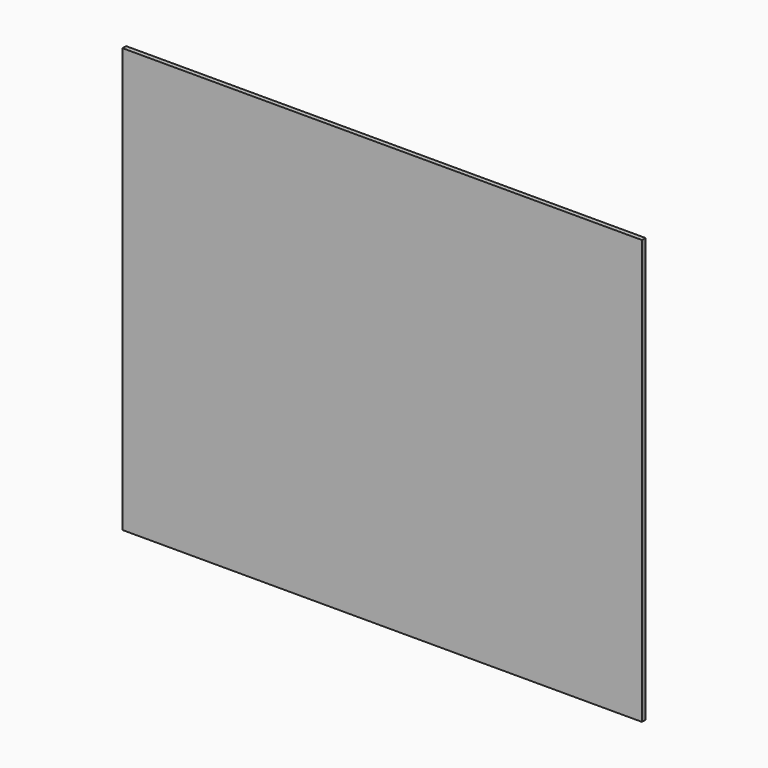
from build123d import *

# Parameters (mm, degrees)
F0_W     = 22.6885974407
F0_H     = 22.1197940409
F0_W_2   = 22.4054604769
F0_H_2   = 20.4182658345
F0_W_3   = 49.8421652913
F0_H_3   = 18.7167446129
F0_W_4   = 21.0188105702
F0_H_4   = 20.4182639718
F0_H_5   = 17.01522246
F0_H_6   = 21.2690271437
F0_H_7   = 22.915400815
F0_W_5   = 24.2707803845
F0_H_8   = 22.1197889186
F0_H_9   = 22.9705497622
F0_H_10  = 16.1644592881
F0_H_11  = 21.2690234184
F0_H_12  = 22.9705572128
F1_DEPTH = 3.302


with BuildPart() as f1:
    # F0 (on Front) → F1 (new body)
    with BuildSketch(Plane.XZ):
        Polygon((-47.1492672342, -29.7174975276), (-47.5814542907, -7.597708609), (-69.7490387884, -7.597708609), (-69.3785926643, -29.7174975276), align=None)
        Polygon((190.5, 91.0905823112), (190.5, 112.3596057296), (167.3408431252, 112.3596057296), (167.4002093941, 91.0905823112), align=None)
        Polygon((31.8565960935, -132.659599185), (31.2031726407, -109.6890419722), (6.6789926587, -109.6890419722), (7.2573604686, -132.659599185), align=None)
        Polygon((82.1086540818, -89.2707780004), (82.1086540818, -73.1063187122), (55.3784938051, -73.1063187122), (55.7321041705, -89.2707780004), align=None)
        Polygon((-22.7662731246, 48.5525242984), (-23.2138789712, 70.6723183393), (-49.1107316578, 70.6723183393), (-48.6785445012, 48.5525242984), align=None)
        with Locations((136.8772238493, -62.0464216918)):
            Rectangle(F0_W, F0_H)
        Polygon((51.7865563865, 91.0905823112), (51.3212796328, 112.3596057296), (24.8867479792, 112.3596057296), (25.4917693808, 91.0905823112), align=None)
        Polygon((103.1274646521, 70.6723183393), (103.1274646521, 84.2207627992), (86.5375326604, 70.6723183393), align=None)
        Polygon((53.9454410105, -7.597708609), (53.5359973797, 11.1190360039), (27.7666503699, 11.1190360039), (28.2990693172, -7.597708609), align=None)
        Polygon((30.6223520529, -89.2707780004), (30.1625357453, -73.1063187122), (5.7578887719, -73.1063187122), (6.1648881681, -89.2707780004), align=None)
        Polygon((-21.182437429, -29.7174975276), (-21.4296472383, -17.500878578), (-36.3887724828, -29.7174975276), align=None)
        Polygon((50.818780641, 135.3301554918), (82.1086540818, 135.3301554918), (82.1086540818, 155.575), (65.6074360013, 155.575), (50.3759086132, 155.575), align=None)
        Polygon((55.7321041705, -89.2707780004), (55.3784938051, -73.1063187122), (30.1625357453, -73.1063187122), (30.6223520529, -89.2707780004), align=None)
        Polygon((-89.6214877868, 73.1908816925), (-89.6714495749, 91.0905823112), (-111.5394885443, 91.0905823112), align=None)
        Polygon((167.9606270932, -109.6890419722), (167.9036354709, -89.2707780004), (148.2215225697, -89.2707780004), (148.2215225697, -109.6890419722), align=None)
        with Locations((114.3301948905, 38.3433913812)):
            Rectangle(F0_W_2, F0_H_2)
        Polygon((86.5375326604, 70.6723183393), (103.1274646521, 84.2207627992), (103.1274646521, 91.0905823112), (82.1086540818, 91.0905823112), (82.1086540818, 70.6723183393), align=None)
        Polygon((167.2731652274, 136.606418269), (167.2202199697, 155.575), (159.403860569, 155.575), (148.2215225697, 155.575), (148.2215225697, 135.3301554918), (165.7103944798, 135.3301554918), align=None)
        with Locations((-165.5789173543, 1.7606636975)):
            Rectangle(F0_W_3, F0_H_3)
        Polygon((82.1086540818, 135.3301554918), (103.1274646521, 135.3301554918), (103.1274646521, 155.575), (96.3208153844, 155.575), (82.1086540818, 155.575), align=None)
        Polygon((-89.6714495749, 91.0905823112), (-89.7308158438, 112.3596057296), (-116.3870543242, 112.3596057296), (-116.3870543242, 95.0494276981), (-111.5394885443, 91.0905823112), align=None)
        Polygon((167.5759335906, 28.134258464), (167.5189419631, 48.5525242984), (148.2215225697, 48.5525242984), (148.2215225697, 28.134258464), align=None)
        Polygon((190.5, -7.597708609), (190.5, 11.1190360039), (167.6234266161, 11.1190360039), (167.6756689439, -7.597708609), align=None)
        Polygon((-162.4403255326, -132.659599185), (-140.6578347087, -114.8705650121), (-140.6578347087, -109.6890419722), (-190.5, -109.6890419722), (-190.5, -132.659599185), align=None)
        Polygon((82.1086540818, -7.597708609), (82.1086540818, 11.1190360039), (53.5359973797, 11.1190360039), (53.9454410105, -7.597708609), align=None)
        Polygon((-67.270822823, -155.575), (-67.6545932761, -132.659599185), (-89.046916272, -132.659599185), (-88.9829546213, -155.575), (-81.0977313981, -155.575), align=None)
        Polygon((103.1274646521, -84.2207627992), (89.5179412803, -73.1063187122), (82.1086540818, -73.1063187122), (82.1086540818, -89.2707780004), (103.1274646521, -89.2707780004), align=None)
        Polygon((-68.0392874483, -109.6890419722), (-68.3812376711, -89.2707780004), (-89.168023498, -89.2707780004), (-89.1110318757, -109.6890419722), align=None)
        Polygon((-140.6578347087, -132.659599185), (-140.6578347087, -114.8705650121), (-162.4403255326, -132.659599185), align=None)
        Polygon((190.5, -132.659599185), (190.5, -109.6890419722), (167.9606270932, -109.6890419722), (168.0247426969, -132.659599185), align=None)
        Polygon((-23.2138789712, 70.6723183393), (-23.627053448, 91.0905823112), (-49.5096735029, 91.0905823112), (-49.1107316578, 70.6723183393), align=None)
        Polygon((-89.7949314267, 135.3301554918), (-72.1426906209, 135.3301554918), (-72.4817365408, 155.575), (-81.0977313981, 155.575), (-89.8514389992, 155.575), align=None)
        Polygon((-116.3870543242, 95.0494276981), (-116.3870543242, 112.3596057296), (-137.5831906893, 112.3596057296), align=None)
        Polygon((56.6812690414, -132.659599185), (56.1787698866, -109.6890419722), (31.2031726407, -109.6890419722), (31.8565960935, -132.659599185), align=None)
        with Locations((92.6180593669, -99.4799099863)):
            Rectangle(F0_W_4, F0_H_4)
        Polygon((-45.5867448013, -109.6890419722), (-45.9856866464, -89.2707780004), (-68.3812376711, -89.2707780004), (-68.0392874483, -109.6890419722), align=None)
        with Locations((92.6180593669, 1.7606636975)):
            Rectangle(F0_W_4, F0_H_3)
        Polygon((125.5329251289, -89.2707780004), (125.5329251289, -73.1063187122), (103.1274646521, -73.1063187122), (103.1274646521, -84.2207627992), (109.3111567351, -89.2707780004), align=None)
        Polygon((26.7018125018, 48.5525242984), (26.0725899687, 70.6723183393), (2.137735606, 70.6723183393), (2.6946823407, 48.5525242984), align=None)
        Polygon((54.4293289342, -29.7174975276), (53.9454410105, -7.597708609), (28.2990693172, -7.597708609), (28.7508552022, -23.4798650818), (36.3887724828, -29.7174975276), align=None)
        Polygon((-89.3342490926, -29.7174975276), (-89.395990025, -7.597708609), (-116.3870543242, -7.597708609), (-116.3870543242, -29.7174975276), align=None)
        Polygon((-116.3870543242, 135.3301554918), (-89.7949314267, 135.3301554918), (-89.8514389992, 155.575), (-98.7423928611, 155.575), (-108.9581176639, 155.575), (-116.3870543242, 155.575), align=None)
        with Locations((136.8772238493, 19.626647234)):
            Rectangle(F0_W, F0_H_5)
        Polygon((148.2215225697, 135.3301554918), (148.2215225697, 155.575), (136.8772238493, 155.575), (125.5329251289, 155.575), (125.5329251289, 135.3301554918), align=None)
        Polygon((-49.1107316578, 70.6723183393), (-49.5096735029, 91.0905823112), (-71.4017984508, 91.0905823112), (-71.059848228, 70.6723183393), align=None)
        with Locations((136.8772238493, -40.3520110995)):
            Rectangle(F0_W, F0_H_6)
        Polygon((-49.9252378945, 112.3596057296), (-50.3740475249, 135.3301554918), (-72.1426906209, 135.3301554918), (-71.7579965735, 112.3596057296), align=None)
        Polygon((-47.9471510336, 11.1190360039), (-48.2796026197, 28.134258464), (-70.3474517641, 28.134258464), (-70.0624932035, 11.1190360039), align=None)
        Polygon((-134.313112619, -109.6890419722), (-116.3870543242, -95.0494276981), (-116.3870543242, -89.2707780004), (-140.6578347087, -89.2707780004), (-140.6578347087, -109.6890419722), align=None)
        Polygon((82.1086540818, -29.7174975276), (82.1086540818, -7.597708609), (53.9454410105, -7.597708609), (54.4293289342, -29.7174975276), align=None)
        Polygon((-46.7337027697, -50.9865246713), (-46.9802648754, -38.3672163149), (-62.4324791894, -50.9865246713), align=None)
        Polygon((167.7374098763, -29.7174975276), (167.6756689439, -7.597708609), (148.2215225697, -7.597708609), (148.2215225697, -29.7174975276), align=None)
        with Locations((-165.5789173543, -62.0464216918)):
            Rectangle(F0_W_3, F0_H)
        Polygon((167.3408431252, 112.3596057296), (167.2767275423, 135.3301554918), (165.7103944798, 135.3301554918), (148.2215225697, 121.0475767652), (148.2215225697, 112.3596057296), align=None)
        with Locations((92.6180593669, -144.1172995925)):
            Rectangle(F0_W_4, F0_H_7)
        Polygon((-70.3474517641, 28.134258464), (-70.6894020181, 48.5525242984), (-89.5527170058, 48.5525242984), (-89.4957253783, 28.134258464), align=None)
        with Locations((114.3301948905, -144.1172995925)):
            Rectangle(F0_W_2, F0_H_7)
        with Locations((-128.5224445164, 59.6124213189)):
            Rectangle(F0_W_5, F0_H)
        Polygon((190.5, 28.134258464), (190.5, 48.5525242984), (167.5189419631, 48.5525242984), (167.5759335906, 28.134258464), align=None)
        Polygon((1.6236311154, 91.0905823112), (1.0881056435, 112.3596057296), (-24.0574434966, 112.3596057296), (-23.627053448, 91.0905823112), align=None)
        Polygon((26.0725899687, 70.6723183393), (25.4917693808, 91.0905823112), (1.6236311154, 91.0905823112), (2.137735606, 70.6723183393), align=None)
        Polygon((-116.3870543242, 112.3596057296), (-116.3870543242, 135.3301554918), (-140.6578347087, 135.3301554918), (-140.6578347087, 114.8705650121), (-137.5831906893, 112.3596057296), align=None)
        Polygon((55.3784938051, -73.1063187122), (54.8946057694, -50.9865246713), (29.5333132121, -50.9865246713), (30.1625357453, -73.1063187122), align=None)
        Polygon((167.5189419631, 48.5525242984), (167.4572010164, 70.6723183393), (148.2215225697, 70.6723183393), (148.2215225697, 48.5525242984), align=None)
        Polygon((52.7171101383, 48.5525242984), (52.2332221026, 70.6723183393), (26.0725899687, 70.6723183393), (26.7018125018, 48.5525242984), align=None)
        Polygon((167.4572010164, 70.6723183393), (167.4002093941, 91.0905823112), (148.2215225697, 91.0905823112), (148.2215225697, 70.6723183393), align=None)
        Polygon((190.5, -89.2707780004), (190.5, -73.1063187122), (167.8585171024, -73.1063187122), (167.9036354709, -89.2707780004), align=None)
        Polygon((6.6789926587, -109.6890419722), (6.1648881681, -89.2707780004), (-19.9773449913, -89.2707780004), (-19.5641705145, -109.6890419722), align=None)
        Polygon((167.6234266161, 11.1190360039), (167.5759335906, 28.134258464), (148.2215225697, 28.134258464), (148.2215225697, 11.1190360039), align=None)
        with Locations((-165.5789173543, 19.626647234)):
            Rectangle(F0_W_3, F0_H_5)
        Polygon((190.5, -29.7174975276), (190.5, -7.597708609), (167.6756689439, -7.597708609), (167.7374098763, -29.7174975276), align=None)
        with Locations((-165.5789173543, 38.3433913812)):
            Rectangle(F0_W_3, F0_H_2)
        Polygon((32.5084505603, -155.575), (31.8565960935, -132.659599185), (7.2573604686, -132.659599185), (7.8343395144, -155.575), align=None)
        with Locations((114.3301948905, -62.0464216918)):
            Rectangle(F0_W_2, F0_H)
        with Locations((114.3301948905, -40.3520110995)):
            Rectangle(F0_W_2, F0_H_6)
        Polygon((-47.5814542907, -7.597708609), (-47.9471510336, 11.1190360039), (-70.0624932035, 11.1190360039), (-69.7490387884, -7.597708609), align=None)
        Polygon((82.1086540818, 70.6723183393), (82.1086540818, 91.0905823112), (51.7865563865, 91.0905823112), (52.2332221026, 70.6723183393), align=None)
        Polygon((-89.2748828133, -50.9865246713), (-89.3342490926, -29.7174975276), (-116.3870543242, -29.7174975276), (-116.3870543242, -50.9865246713), align=None)
        Polygon((-89.4482323528, 11.1190360039), (-89.4957253783, 28.134258464), (-116.3870543242, 28.134258464), (-116.3870543242, 11.1190360039), align=None)
        Polygon((57.1825616062, -155.575), (56.6812690414, -132.659599185), (31.8565960935, -132.659599185), (32.5084505603, -155.575), align=None)
        with Locations((92.6180593669, -18.6576030683)):
            Rectangle(F0_W_4, F0_H_8)
        Polygon((-69.7490387884, -7.597708609), (-70.0624932035, 11.1190360039), (-89.4482323528, 11.1190360039), (-89.395990025, -7.597708609), align=None)
        with Locations((92.6180593669, 123.8448806107)):
            Rectangle(F0_W_4, F0_H_9)
        Polygon((167.2731652274, 136.606418269), (190.5, 155.575), (167.2202199697, 155.575), align=None)
        with Locations((-128.5224445164, -81.1885483563)):
            Rectangle(F0_W_5, F0_H_10)
        Polygon((-48.5038500365, 39.6114775298), (-59.4520705695, 48.5525242984), (-70.6894020181, 48.5525242984), (-70.3474517641, 28.134258464), (-48.2796026197, 28.134258464), align=None)
        Polygon((30.1625357453, -73.1063187122), (29.5333132121, -50.9865246713), (5.2009420372, -50.9865246713), (5.7578887719, -73.1063187122), align=None)
        Polygon((148.2215225697, -121.0475767652), (148.2215225697, -109.6890419722), (134.313112619, -109.6890419722), align=None)
        Polygon((-48.6785445012, 48.5525242984), (-49.1107316578, 70.6723183393), (-71.059848228, 70.6723183393), (-70.8452255019, 57.8569341599), (-59.4520705695, 48.5525242984), align=None)
        Polygon((82.1086540818, 91.0905823112), (82.1086540818, 112.3596057296), (51.3212796328, 112.3596057296), (51.7865563865, 91.0905823112), align=None)
        Polygon((125.5329251289, -102.518555522), (109.3111567351, -89.2707780004), (103.1274646521, -89.2707780004), (103.1274646521, -109.6890419722), (125.5329251289, -109.6890419722), align=None)
        Polygon((-89.046916272, -132.659599185), (-89.1110318757, -109.6890419722), (-116.3870543242, -109.6890419722), (-116.3870543242, -132.659599185), align=None)
        Polygon((148.2215225697, -121.0475767652), (134.313112619, -109.6890419722), (125.5329251289, -109.6890419722), (125.5329251289, -132.659599185), (148.2215225697, -132.659599185), align=None)
        Polygon((-68.3812376711, -89.2707780004), (-68.6519482693, -73.1063187122), (-89.2131418666, -73.1063187122), (-89.168023498, -89.2707780004), align=None)
        with Locations((114.3301948905, 59.6124213189)):
            Rectangle(F0_W_2, F0_H)
        Polygon((25.4917693808, 91.0905823112), (24.8867479792, 112.3596057296), (1.0881056435, 112.3596057296), (1.6236311154, 91.0905823112), align=None)
        Polygon((59.4520705695, 48.5525242984), (82.1086540818, 67.0554008335), (82.1086540818, 70.6723183393), (52.2332221026, 70.6723183393), (52.7171101383, 48.5525242984), align=None)
        Polygon((-109.3111567351, -89.2707780004), (-89.5179412803, -73.1063187122), (-116.3870543242, -73.1063187122), (-116.3870543242, -89.2707780004), align=None)
        Polygon((82.1086540818, -132.659599185), (82.1086540818, -109.6890419722), (56.1787698866, -109.6890419722), (56.6812690414, -132.659599185), align=None)
        with Locations((114.3301948905, 123.8448806107)):
            Rectangle(F0_W_2, F0_H_9)
        Polygon((28.7508552022, -23.4798650818), (9.303316664, -7.597708609), (4.1084698657, -7.597708609), (4.6654164715, -29.7174975276), (28.9282917046, -29.7174975276), align=None)
        Polygon((-62.4324791894, -50.9865246713), (-46.9802648754, -38.3672163149), (-47.1492672342, -29.7174975276), (-69.3785926643, -29.7174975276), (-69.0223944792, -50.9865246713), align=None)
        Polygon((190.5, 112.3596057296), (190.5, 135.3301554918), (167.2767275423, 135.3301554918), (167.3408431252, 112.3596057296), align=None)
        Polygon((-89.6214877868, 73.1908816925), (-111.5394885443, 91.0905823112), (-116.3870543242, 91.0905823112), (-116.3870543242, 70.6723183393), (-89.6144579525, 70.6723183393), align=None)
        Polygon((82.1086540818, -50.9865246713), (82.1086540818, -29.7174975276), (54.4293289342, -29.7174975276), (54.7574903207, -44.7186170952), (62.4324791894, -50.9865246713), align=None)
        Polygon((82.1086540818, 112.3596057296), (82.1086540818, 135.3301554918), (50.818780641, 135.3301554918), (51.3212796328, 112.3596057296), align=None)
        Polygon((167.9036354709, -89.2707780004), (167.8585171024, -73.1063187122), (148.2215225697, -73.1063187122), (148.2215225697, -89.2707780004), align=None)
        with Locations((114.3301948905, -18.6576030683)):
            Rectangle(F0_W_2, F0_H_8)
        Polygon((141.1656588316, -155.575), (148.2215225697, -155.575), (148.2215225697, -132.659599185), (125.5329251289, -132.659599185), (125.5329251289, -155.575), align=None)
        with Locations((114.3301948905, -144.1172995925)):
            Rectangle(F0_W_2, F0_H_7)
        with Locations((-165.5789173543, -40.3520110995)):
            Rectangle(F0_W_3, F0_H_6)
        Polygon((2.137735606, 70.6723183393), (1.6236311154, 91.0905823112), (-23.627053448, 91.0905823112), (-23.2138789712, 70.6723183393), align=None)
        Polygon((4.6654164715, -29.7174975276), (4.1084698657, -7.597708609), (-9.303316664, -7.597708609), (-21.4296472383, -17.500878578), (-21.182437429, -29.7174975276), align=None)
        Polygon((148.2215225697, 91.0905823112), (148.2215225697, 112.3596057296), (137.5831906893, 112.3596057296), (125.5329251289, 102.518555522), (125.5329251289, 91.0905823112), align=None)
        Polygon((-140.6578347087, 114.8705650121), (-140.6578347087, 135.3301554918), (-165.7103944798, 135.3301554918), align=None)
        with Locations((-128.5224445164, -62.0464216918)):
            Rectangle(F0_W_5, F0_H)
        Polygon((-22.3530986101, 28.134258464), (-22.7662731246, 48.5525242984), (-48.6785445012, 48.5525242984), (-48.5038500365, 39.6114775298), (-34.4501124049, 28.134258464), align=None)
        Polygon((1.0881056435, 112.3596057296), (0.5097380212, 135.3301554918), (-24.5222648396, 135.3301554918), (-24.0574434966, 112.3596057296), align=None)
        Polygon((82.1086540818, 28.134258464), (82.1086540818, 48.5525242984), (59.4520705695, 48.5525242984), (52.8353199169, 43.1488445988), (53.1637758952, 28.134258464), align=None)
        Polygon((82.1086540818, -155.575), (82.1086540818, -132.659599185), (56.6812690414, -132.659599185), (57.1825616062, -155.575), (63.8704672456, -155.575), align=None)
        Polygon((125.5329251289, 70.6723183393), (125.5329251289, 91.0905823112), (111.5394885443, 91.0905823112), (103.1274646521, 84.2207627992), (103.1274646521, 70.6723183393), align=None)
        Polygon((-19.5641705145, -109.6890419722), (-19.9773449913, -89.2707780004), (-45.9856866464, -89.2707780004), (-45.5867448013, -109.6890419722), align=None)
        Polygon((3.2087868782, 28.134258464), (2.6946823407, 48.5525242984), (-22.7662731246, 48.5525242984), (-22.3530986101, 28.134258464), align=None)
        Polygon((-69.3785926643, -29.7174975276), (-69.7490387884, -7.597708609), (-89.395990025, -7.597708609), (-89.3342490926, -29.7174975276), align=None)
        Polygon((190.5, 135.3301554918), (190.5, 155.575), (167.2731652274, 136.606418269), (167.2767275423, 135.3301554918), align=None)
        with Locations((-165.5789173543, 80.8814503253)):
            Rectangle(F0_W_3, F0_H_4)
        Polygon((-49.5096735029, 91.0905823112), (-49.9252378945, 112.3596057296), (-71.7579965735, 112.3596057296), (-71.4017984508, 91.0905823112), align=None)
        Polygon((-89.168023498, -89.2707780004), (-89.2131418666, -73.1063187122), (-89.5179412803, -73.1063187122), (-109.3111567351, -89.2707780004), align=None)
        Polygon((-22.1498279695, 18.0890261751), (-34.4501124049, 28.134258464), (-48.2796026197, 28.134258464), (-47.9471510336, 11.1190360039), (-22.0087864958, 11.1190360039), align=None)
        Polygon((167.7967761557, -50.9865246713), (167.7374098763, -29.7174975276), (148.2215225697, -29.7174975276), (148.2215225697, -50.9865246713), align=None)
        Polygon((82.1086540818, 11.1190360039), (82.1086540818, 28.134258464), (53.1637758952, 28.134258464), (53.5359973797, 11.1190360039), align=None)
        Polygon((-88.9829546213, -155.575), (-89.046916272, -132.659599185), (-116.3870543242, -132.659599185), (-116.3870543242, -155.575), (-108.9581176639, -155.575), align=None)
        with Locations((-165.5789173543, -81.1885483563)):
            Rectangle(F0_W_3, F0_H_10)
        Polygon((-71.4017984508, 91.0905823112), (-71.7579965735, 112.3596057296), (-89.7308158438, 112.3596057296), (-89.6714495749, 91.0905823112), align=None)
        Polygon((137.5831906893, 112.3596057296), (148.2215225697, 121.0475767652), (148.2215225697, 135.3301554918), (125.5329251289, 135.3301554918), (125.5329251289, 112.3596057296), align=None)
        Polygon((-89.5179412803, -73.1063187122), (-89.2138350726, -72.8579653093), (-89.2748828133, -50.9865246713), (-116.3870543242, -50.9865246713), (-116.3870543242, -73.1063187122), align=None)
        Polygon((190.5, -50.9865246713), (190.5, -29.7174975276), (167.7374098763, -29.7174975276), (167.7967761557, -50.9865246713), align=None)
        Polygon((82.1086540818, 48.5525242984), (82.1086540818, 67.0554008335), (59.4520705695, 48.5525242984), align=None)
        Polygon((-36.3887724828, -29.7174975276), (-21.4296472383, -17.500878578), (-21.6300431719, -7.597708609), (-47.5814542907, -7.597708609), (-47.1492672342, -29.7174975276), align=None)
        Polygon((167.4002093941, 91.0905823112), (167.3408431252, 112.3596057296), (148.2215225697, 112.3596057296), (148.2215225697, 91.0905823112), align=None)
        with Locations((136.8772238493, -81.1885483563)):
            Rectangle(F0_W, F0_H_10)
        with Locations((136.8772238493, 59.6124213189)):
            Rectangle(F0_W, F0_H)
        Polygon((0.5097380212, 135.3301554918), (24.2333247384, 135.3301554918), (23.657437263, 155.575), (9.498972144, 155.575), (0, 155.575), align=None)
        Polygon((24.2333247384, 135.3301554918), (50.818780641, 135.3301554918), (50.3759086132, 155.575), (37.8159023821, 155.575), (23.657437263, 155.575), align=None)
        Polygon((-67.6545932761, -132.659599185), (-68.0392874483, -109.6890419722), (-89.1110318757, -109.6890419722), (-89.046916272, -132.659599185), align=None)
        Polygon((148.2215225697, 121.0475767652), (165.7103944798, 135.3301554918), (148.2215225697, 135.3301554918), align=None)
        Polygon((-69.0223944792, -50.9865246713), (-69.3785926643, -29.7174975276), (-89.3342490926, -29.7174975276), (-89.2748828133, -50.9865246713), align=None)
        Polygon((24.8867479792, 112.3596057296), (24.2333247384, 135.3301554918), (0.5097380212, 135.3301554918), (1.0881056435, 112.3596057296), align=None)
        Polygon((167.8585171024, -73.1063187122), (167.7967761557, -50.9865246713), (148.2215225697, -50.9865246713), (148.2215225697, -73.1063187122), align=None)
        with Locations((92.6180593669, 19.626647234)):
            Rectangle(F0_W_4, F0_H_5)
        Polygon((168.0247426969, -132.659599185), (167.9606270932, -109.6890419722), (148.2215225697, -109.6890419722), (148.2215225697, -121.0475767652), (162.4403255326, -132.659599185), align=None)
        Polygon((34.4501124049, 28.134258464), (52.8353199169, 43.1488445988), (52.7171101383, 48.5525242984), (26.7018125018, 48.5525242984), (27.2826331427, 28.134258464), align=None)
        with Locations((136.8772238493, -18.6576030683)):
            Rectangle(F0_W, F0_H_8)
        Polygon((-44.6902029216, -155.575), (-45.1379350254, -132.659599185), (-67.6545932761, -132.659599185), (-67.270822823, -155.575), align=None)
        Polygon((190.5, 11.1190360039), (190.5, 28.134258464), (167.5759335906, 28.134258464), (167.6234266161, 11.1190360039), align=None)
        Polygon((29.5333132121, -50.9865246713), (28.9282917046, -29.7174975276), (4.6654164715, -29.7174975276), (5.2009420372, -50.9865246713), align=None)
        with Locations((92.6180593669, 101.7250940204)):
            Rectangle(F0_W_4, F0_H_11)
        Polygon((-70.0624932035, 11.1190360039), (-70.3474517641, 28.134258464), (-89.4957253783, 28.134258464), (-89.4482323528, 11.1190360039), align=None)
        Polygon((31.2031726407, -109.6890419722), (30.6223520529, -89.2707780004), (6.1648881681, -89.2707780004), (6.6789926587, -109.6890419722), align=None)
        Polygon((103.1274646521, 135.3301554918), (125.5329251289, 135.3301554918), (125.5329251289, 155.575), (111.637160182, 155.575), (103.1274646521, 155.575), align=None)
        Polygon((56.1787698866, -109.6890419722), (55.7321041705, -89.2707780004), (30.6223520529, -89.2707780004), (31.2031726407, -109.6890419722), align=None)
        Polygon((51.3212796328, 112.3596057296), (50.818780641, 135.3301554918), (24.2333247384, 135.3301554918), (24.8867479792, 112.3596057296), align=None)
        Polygon((-89.4957253783, 28.134258464), (-89.5527170058, 48.5525242984), (-116.3870543242, 48.5525242984), (-116.3870543242, 28.134258464), align=None)
        with Locations((92.6180593669, -40.3520110995)):
            Rectangle(F0_W_4, F0_H_6)
        Polygon((-116.3870543242, -109.6890419722), (-116.3870543242, -95.0494276981), (-134.313112619, -109.6890419722), align=None)
        with Locations((-128.5224445164, 38.3433913812)):
            Rectangle(F0_W_5, F0_H_2)
        Polygon((125.5329251289, -102.518555522), (125.5329251289, -89.2707780004), (109.3111567351, -89.2707780004), align=None)
        with Locations((136.8772238493, 80.8814503253)):
            Rectangle(F0_W, F0_H_4)
        Polygon((148.2215225697, -155.575), (168.0887043476, -155.575), (168.037501384, -137.2306261303), (162.4403255326, -132.659599185), (148.2215225697, -132.659599185), align=None)
        Polygon((-19.0993490207, -132.659599185), (-19.5641705145, -109.6890419722), (-45.5867448013, -109.6890419722), (-45.1379350254, -132.659599185), align=None)
        Polygon((-89.2138350726, -72.8579653093), (-68.9334806791, -56.2956758879), (-69.0223944792, -50.9865246713), (-89.2748828133, -50.9865246713), align=None)
        with Locations((-128.5224445164, -18.6576030683)):
            Rectangle(F0_W_5, F0_H_8)
        Polygon((-71.7579965735, 112.3596057296), (-72.1426906209, 135.3301554918), (-89.7949314267, 135.3301554918), (-89.7308158438, 112.3596057296), align=None)
        Polygon((-190.5, -155.575), (-162.4403255326, -132.659599185), (-190.5, -132.659599185), align=None)
        Polygon((-20.752047305, -50.9865246713), (-21.182437429, -29.7174975276), (-36.3887724828, -29.7174975276), (-46.9802648754, -38.3672163149), (-46.7337027697, -50.9865246713), align=None)
        with Locations((-128.5224445164, 19.626647234)):
            Rectangle(F0_W_5, F0_H_5)
        Polygon((103.1274646521, -73.1063187122), (103.1274646521, -50.9865246713), (82.1086540818, -50.9865246713), (82.1086540818, -67.0554008335), (89.5179412803, -73.1063187122), align=None)
        Polygon((27.2826331427, 28.134258464), (26.7018125018, 48.5525242984), (2.6946823407, 48.5525242984), (3.2087868782, 28.134258464), align=None)
        with Locations((-128.5224445164, 80.8814503253)):
            Rectangle(F0_W_5, F0_H_4)
        with Locations((-165.5789173543, -18.6576030683)):
            Rectangle(F0_W_3, F0_H_8)
        Polygon((-140.6578347087, 114.8705650121), (-165.7103944798, 135.3301554918), (-190.5, 135.3301554918), (-190.5, 112.3596057296), (-140.6578347087, 112.3596057296), align=None)
        Polygon((52.2332221026, 70.6723183393), (51.7865563865, 91.0905823112), (25.4917693808, 91.0905823112), (26.0725899687, 70.6723183393), align=None)
        Polygon((5.7578887719, -73.1063187122), (5.2009420372, -50.9865246713), (-20.752047305, -50.9865246713), (-20.3044414584, -73.1063187122), align=None)
        Polygon((-23.627053448, 91.0905823112), (-24.0574434966, 112.3596057296), (-49.9252378945, 112.3596057296), (-49.5096735029, 91.0905823112), align=None)
        with Locations((136.8772238493, 1.7606636975)):
            Rectangle(F0_W, F0_H_3)
        Polygon((-89.7308158438, 112.3596057296), (-89.7949314267, 135.3301554918), (-116.3870543242, 135.3301554918), (-116.3870543242, 112.3596057296), align=None)
        Polygon((-50.3740475249, 135.3301554918), (-24.5222648396, 135.3301554918), (-24.931930081, 155.575), (-36.4088974893, 155.575), (-50.7696010172, 155.575), align=None)
        Polygon((-24.0574434966, 112.3596057296), (-24.5222648396, 135.3301554918), (-50.3740475249, 135.3301554918), (-49.9252378945, 112.3596057296), align=None)
        Polygon((-89.1110318757, -109.6890419722), (-89.168023498, -89.2707780004), (-109.3111567351, -89.2707780004), (-116.3870543242, -95.0494276981), (-116.3870543242, -109.6890419722), align=None)
        Polygon((-21.6300431719, -7.597708609), (-22.0087864958, 11.1190360039), (-47.9471510336, 11.1190360039), (-47.5814542907, -7.597708609), align=None)
        Polygon((7.2573604686, -132.659599185), (6.6789926587, -109.6890419722), (-19.5641705145, -109.6890419722), (-19.0993490207, -132.659599185), align=None)
        Polygon((190.5, -109.6890419722), (190.5, -89.2707780004), (167.9036354709, -89.2707780004), (167.9606270932, -109.6890419722), align=None)
        Polygon((-18.6356436461, -155.575), (-19.0993490207, -132.659599185), (-45.1379350254, -132.659599185), (-44.6902029216, -155.575), (-35.5580672622, -155.575), align=None)
        Polygon((111.5394885443, 91.0905823112), (125.5329251289, 102.518555522), (125.5329251289, 112.3596057296), (103.1274646521, 112.3596057296), (103.1274646521, 91.0905823112), align=None)
        Polygon((-70.8452255019, 57.8569341599), (-86.5375326604, 70.6723183393), (-89.6144579525, 70.6723183393), (-89.5527170058, 48.5525242984), (-70.6894020181, 48.5525242984), align=None)
        Polygon((6.1648881681, -89.2707780004), (5.7578887719, -73.1063187122), (-20.3044414584, -73.1063187122), (-19.9773449913, -89.2707780004), align=None)
        with Locations((-165.5789173543, 101.7250940204)):
            Rectangle(F0_W_3, F0_H_11)
        Polygon((103.1274646521, 48.5525242984), (103.1274646521, 70.6723183393), (86.5375326604, 70.6723183393), (82.1086540818, 67.0554008335), (82.1086540818, 48.5525242984), align=None)
        with Locations((114.3301948905, 19.626647234)):
            Rectangle(F0_W_2, F0_H_5)
        with Locations((-165.5789173543, -99.4799099863)):
            Rectangle(F0_W_3, F0_H_4)
        Polygon((190.5, -155.575), (190.5, -132.659599185), (168.0247426969, -132.659599185), (168.037501384, -137.2306261303), align=None)
        Polygon((-140.6578347087, -155.575), (-140.6578347087, -132.659599185), (-162.4403255326, -132.659599185), (-190.5, -155.575), (-174.0945279598, -155.575), (-153.2508730888, -155.575), align=None)
        with Locations((114.3301948905, 1.7606636975)):
            Rectangle(F0_W_2, F0_H_3)
        Polygon((190.5, 48.5525242984), (190.5, 70.6723183393), (167.4572010164, 70.6723183393), (167.5189419631, 48.5525242984), align=None)
        Polygon((-19.9773449913, -89.2707780004), (-20.3044414584, -73.1063187122), (-46.3015156132, -73.1063187122), (-45.9856866464, -89.2707780004), align=None)
        Polygon((-89.395990025, -7.597708609), (-89.4482323528, 11.1190360039), (-116.3870543242, 11.1190360039), (-116.3870543242, -7.597708609), align=None)
        Polygon((-116.3870543242, -132.659599185), (-116.3870543242, -109.6890419722), (-134.313112619, -109.6890419722), (-140.6578347087, -114.8705650121), (-140.6578347087, -132.659599185), align=None)
        with Locations((136.8772238493, 38.3433913812)):
            Rectangle(F0_W, F0_H_2)
        Polygon((82.1086540818, -109.6890419722), (82.1086540818, -89.2707780004), (55.7321041705, -89.2707780004), (56.1787698866, -109.6890419722), align=None)
        Polygon((-140.6578347087, 135.3301554918), (-116.3870543242, 135.3301554918), (-116.3870543242, 155.575), (-128.0647963285, 155.575), (-140.6578347087, 155.575), align=None)
        Polygon((82.1086540818, -67.0554008335), (62.4324791894, -50.9865246713), (54.8946057694, -50.9865246713), (55.3784938051, -73.1063187122), (82.1086540818, -73.1063187122), align=None)
        Polygon((-116.3870543242, 95.0494276981), (-137.5831906893, 112.3596057296), (-140.6578347087, 112.3596057296), (-140.6578347087, 91.0905823112), (-116.3870543242, 91.0905823112), align=None)
        with Locations((-128.5224445164, -40.3520110995)):
            Rectangle(F0_W_5, F0_H_6)
        Polygon((53.1637758952, 28.134258464), (52.8353199169, 43.1488445988), (34.4501124049, 28.134258464), align=None)
        Polygon((-20.3044414584, -73.1063187122), (-20.752047305, -50.9865246713), (-46.7337027697, -50.9865246713), (-46.3015156132, -73.1063187122), align=None)
        Polygon((190.5, 70.6723183393), (190.5, 91.0905823112), (167.4002093941, 91.0905823112), (167.4572010164, 70.6723183393), align=None)
        Polygon((-190.5, 135.3301554918), (-165.7103944798, 135.3301554918), (-190.5, 155.575), align=None)
        Polygon((53.5359973797, 11.1190360039), (53.1637758952, 28.134258464), (34.4501124049, 28.134258464), (27.4453605747, 22.413711136), (27.7666503699, 11.1190360039), align=None)
        Polygon((5.2009420372, -50.9865246713), (4.6654164715, -29.7174975276), (-21.182437429, -29.7174975276), (-20.752047305, -50.9865246713), align=None)
        Polygon((-71.059848228, 70.6723183393), (-71.4017984508, 91.0905823112), (-89.6714495749, 91.0905823112), (-89.6214877868, 73.1908816925), (-86.5375326604, 70.6723183393), align=None)
        Polygon((-45.9856866464, -89.2707780004), (-46.3015156132, -73.1063187122), (-68.6519482693, -73.1063187122), (-68.3812376711, -89.2707780004), align=None)
        Polygon((54.7574903207, -44.7186170952), (54.4293289342, -29.7174975276), (36.3887724828, -29.7174975276), align=None)
        Polygon((148.2215225697, -109.6890419722), (148.2215225697, -89.2707780004), (125.5329251289, -89.2707780004), (125.5329251289, -102.518555522), (134.313112619, -109.6890419722), align=None)
        Polygon((-24.5222648396, 135.3301554918), (0.5097380212, 135.3301554918), (0, 155.575), (-13.4549626727, 155.575), (-24.931930081, 155.575), align=None)
        with Locations((92.6180593669, 38.3433913812)):
            Rectangle(F0_W_4, F0_H_2)
        Polygon((-165.7103944798, 135.3301554918), (-140.6578347087, 135.3301554918), (-140.6578347087, 155.575), (-153.2508730888, 155.575), (-169.7520911694, 155.575), (-190.5, 155.575), align=None)
        with Locations((-128.5224445164, 1.7606636975)):
            Rectangle(F0_W_5, F0_H_3)
        Polygon((190.5, -73.1063187122), (190.5, -50.9865246713), (167.7967761557, -50.9865246713), (167.8585171024, -73.1063187122), align=None)
        Polygon((54.7574903207, -44.7186170952), (36.3887724828, -29.7174975276), (28.9282917046, -29.7174975276), (29.5333132121, -50.9865246713), (54.8946057694, -50.9865246713), align=None)
        Polygon((167.6756689439, -7.597708609), (167.6234266161, 11.1190360039), (148.2215225697, 11.1190360039), (148.2215225697, -7.597708609), align=None)
        with Locations((-128.5224445164, -144.1172995925)):
            Rectangle(F0_W_5, F0_H_7)
        with Locations((114.3301948905, -121.1743205786)):
            Rectangle(F0_W_2, F0_H_12)
        Polygon((-46.3015156132, -73.1063187122), (-46.7337027697, -50.9865246713), (-62.4324791894, -50.9865246713), (-68.9334806791, -56.2956758879), (-68.6519482693, -73.1063187122), align=None)
        Polygon((7.8343395144, -155.575), (7.2573604686, -132.659599185), (-19.0993490207, -132.659599185), (-18.6356436461, -155.575), align=None)
        with Locations((-165.5789173543, 59.6124213189)):
            Rectangle(F0_W_3, F0_H)
        Polygon((-89.5527170058, 48.5525242984), (-89.6144579525, 70.6723183393), (-116.3870543242, 70.6723183393), (-116.3870543242, 48.5525242984), align=None)
        with Locations((92.6180593669, -121.1743205786)):
            Rectangle(F0_W_4, F0_H_12)
        Polygon((-72.1426906209, 135.3301554918), (-50.3740475249, 135.3301554918), (-50.7696010172, 155.575), (-63.7968853116, 155.575), (-72.4817365408, 155.575), align=None)
        Polygon((-45.1379350254, -132.659599185), (-45.5867448013, -109.6890419722), (-68.0392874483, -109.6890419722), (-67.6545932761, -132.659599185), align=None)
        Polygon((2.6946823407, 48.5525242984), (2.137735606, 70.6723183393), (-23.2138789712, 70.6723183393), (-22.7662731246, 48.5525242984), align=None)
        Polygon((3.999407865, -3.2661830897), (3.8382455607, 3.1345672079), (0, 0), align=None)
        Polygon((-68.6519482693, -73.1063187122), (-68.9334806791, -56.2956758879), (-89.2138350726, -72.8579653093), (-89.2131418666, -73.1063187122), align=None)
        Polygon((103.1274646521, -84.2207627992), (103.1274646521, -73.1063187122), (89.5179412803, -73.1063187122), align=None)
        Polygon((-140.6578347087, 112.3596057296), (-137.5831906893, 112.3596057296), (-140.6578347087, 114.8705650121), align=None)
        Polygon((28.2990693172, -7.597708609), (27.7666503699, 11.1190360039), (13.6151461273, 11.1190360039), (3.8382455607, 3.1345672079), (3.999407865, -3.2661830897), (9.303316664, -7.597708609), align=None)
        Polygon((-9.303316664, -7.597708609), (0, 0), (-13.6151461273, 11.1190360039), (-22.0087864958, 11.1190360039), (-21.6300431719, -7.597708609), align=None)
        Polygon((-116.3870543242, -95.0494276981), (-109.3111567351, -89.2707780004), (-116.3870543242, -89.2707780004), align=None)
        Polygon((28.9282917046, -29.7174975276), (36.3887724828, -29.7174975276), (28.7508552022, -23.4798650818), align=None)
        Polygon((13.6151461273, 11.1190360039), (27.4453605747, 22.413711136), (27.2826331427, 28.134258464), (3.2087868782, 28.134258464), (3.6372073496, 11.1190360039), align=None)
        Polygon((-21.4296472383, -17.500878578), (-9.303316664, -7.597708609), (-21.6300431719, -7.597708609), align=None)
        Polygon((-48.2796026197, 28.134258464), (-34.4501124049, 28.134258464), (-48.5038500365, 39.6114775298), align=None)
        Polygon((103.1274646521, 84.2207627992), (111.5394885443, 91.0905823112), (103.1274646521, 91.0905823112), align=None)
        Polygon((-70.8452255019, 57.8569341599), (-71.059848228, 70.6723183393), (-86.5375326604, 70.6723183393), align=None)
        Polygon((82.1086540818, -73.1063187122), (89.5179412803, -73.1063187122), (82.1086540818, -67.0554008335), align=None)
        Polygon((-140.6578347087, -114.8705650121), (-134.313112619, -109.6890419722), (-140.6578347087, -109.6890419722), align=None)
        Polygon((-89.6144579525, 70.6723183393), (-86.5375326604, 70.6723183393), (-89.6214877868, 73.1908816925), align=None)
        Polygon((52.8353199169, 43.1488445988), (59.4520705695, 48.5525242984), (52.7171101383, 48.5525242984), align=None)
        Polygon((3.8382455607, 3.1345672079), (13.6151461273, 11.1190360039), (3.6372073496, 11.1190360039), align=None)
        Polygon((82.1086540818, 67.0554008335), (86.5375326604, 70.6723183393), (82.1086540818, 70.6723183393), align=None)
        Polygon((82.1086540818, -67.0554008335), (82.1086540818, -50.9865246713), (62.4324791894, -50.9865246713), align=None)
        Polygon((-48.5038500365, 39.6114775298), (-48.6785445012, 48.5525242984), (-59.4520705695, 48.5525242984), align=None)
        Polygon((-22.1498279695, 18.0890261751), (-22.3530986101, 28.134258464), (-34.4501124049, 28.134258464), align=None)
        Polygon((-46.9802648754, -38.3672163149), (-36.3887724828, -29.7174975276), (-47.1492672342, -29.7174975276), align=None)
        Polygon((167.2767275423, 135.3301554918), (167.2731652274, 136.606418269), (165.7103944798, 135.3301554918), align=None)
        Polygon((28.7508552022, -23.4798650818), (28.2990693172, -7.597708609), (9.303316664, -7.597708609), align=None)
        Polygon((3.999407865, -3.2661830897), (0, 0), (-9.303316664, -7.597708609), (4.1084698657, -7.597708609), align=None)
        Polygon((27.4453605747, 22.413711136), (34.4501124049, 28.134258464), (27.2826331427, 28.134258464), align=None)
        Polygon((54.8946057694, -50.9865246713), (62.4324791894, -50.9865246713), (54.7574903207, -44.7186170952), align=None)
        Polygon((-22.0087864958, 11.1190360039), (-13.6151461273, 11.1190360039), (-22.1498279695, 18.0890261751), align=None)
        Polygon((125.5329251289, 91.0905823112), (125.5329251289, 102.518555522), (111.5394885443, 91.0905823112), align=None)
        Polygon((168.037501384, -137.2306261303), (168.0247426969, -132.659599185), (162.4403255326, -132.659599185), align=None)
        Polygon((-89.2131418666, -73.1063187122), (-89.2138350726, -72.8579653093), (-89.5179412803, -73.1063187122), align=None)
        Polygon((103.1274646521, -89.2707780004), (109.3111567351, -89.2707780004), (103.1274646521, -84.2207627992), align=None)
        Polygon((27.7666503699, 11.1190360039), (27.4453605747, 22.413711136), (13.6151461273, 11.1190360039), align=None)
        Polygon((125.5329251289, -109.6890419722), (134.313112619, -109.6890419722), (125.5329251289, -102.518555522), align=None)
        Polygon((-70.6894020181, 48.5525242984), (-59.4520705695, 48.5525242984), (-70.8452255019, 57.8569341599), align=None)
        Polygon((125.5329251289, 102.518555522), (137.5831906893, 112.3596057296), (125.5329251289, 112.3596057296), align=None)
        Polygon((3.6372073496, 11.1190360039), (3.2087868782, 28.134258464), (-22.3530986101, 28.134258464), (-22.1498279695, 18.0890261751), (-13.6151461273, 11.1190360039), align=None)
        Polygon((4.1084698657, -7.597708609), (9.303316664, -7.597708609), (3.999407865, -3.2661830897), align=None)
        Polygon((0, 0), (3.8382455607, 3.1345672079), (3.6372073496, 11.1190360039), (-13.6151461273, 11.1190360039), align=None)
        Polygon((-68.9334806791, -56.2956758879), (-62.4324791894, -50.9865246713), (-69.0223944792, -50.9865246713), align=None)
        Polygon((148.2215225697, -132.659599185), (162.4403255326, -132.659599185), (148.2215225697, -121.0475767652), align=None)
        Polygon((148.2215225697, 112.3596057296), (148.2215225697, 121.0475767652), (137.5831906893, 112.3596057296), align=None)
        Polygon((168.0887043476, -155.575), (190.5, -155.575), (168.037501384, -137.2306261303), align=None)
        Polygon((-116.3870543242, 91.0905823112), (-111.5394885443, 91.0905823112), (-116.3870543242, 95.0494276981), align=None)
    extrude(amount=F1_DEPTH)


solid = f1.part
